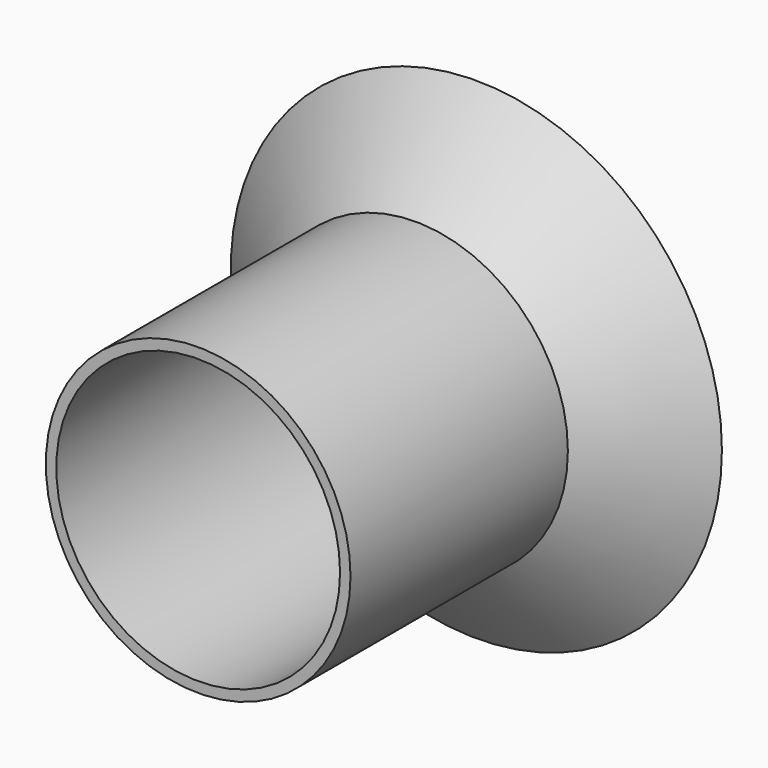
from build123d import *

# Parameters (mm, degrees)
F0_W = 37.0173789561
F0_H = 66.0191774368
F2_T = -2.54


with BuildPart() as f1:
    # F0 (on Top) → F1 (revolve)
    with BuildSketch(Plane.XY):
        Polygon((0, 18.4741672128), (0, 0), (37.0173789561, 0), (59.6650801599, 18.4741672128), align=None)
        with Locations((18.508689478, -33.0095887184)):
            Rectangle(F0_W, F0_H)
    revolve(axis=Axis((0, -33.0095887184, 0), (0, -1, 0)))

    # F2
    f2_openings = [f1.faces().sort_by_distance(p)[0] for p in [
        (0, -66.019177, 0),
    ]]
    offset(amount=F2_T, openings=f2_openings, kind=Kind.INTERSECTION)


solid = f1.part
